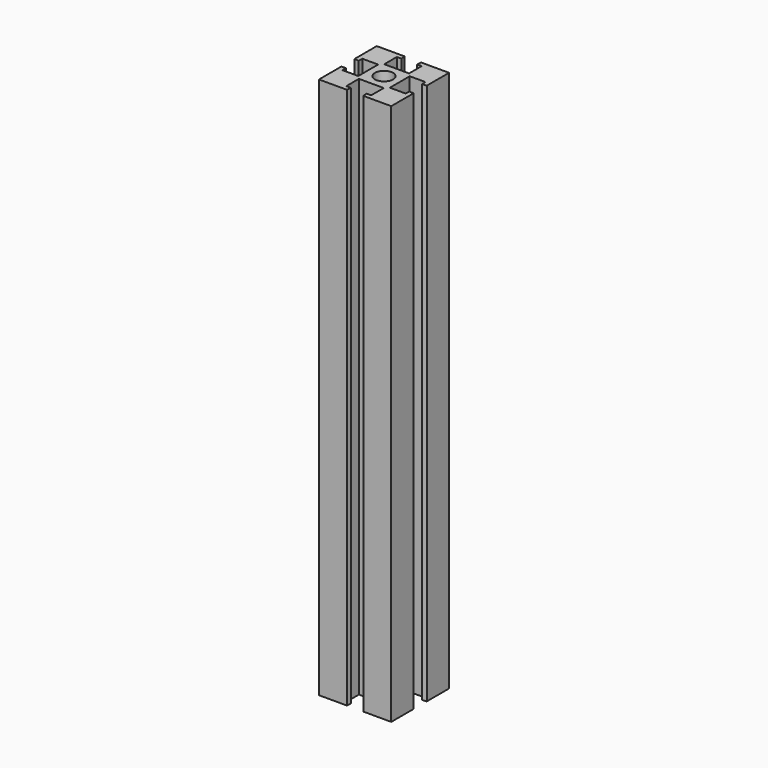
from build123d import *

# Parameters (mm, degrees)
F0_W     = 50.8
F0_H     = 50.8
F1_DEPTH = 381
F2_R     = 6.35
F3_DEPTH = 508


with BuildPart() as f1:
    # F0 (on Top) → F1 (new body)
    with BuildSketch(Plane.XY):
        with Locations((25.4, -25.4)):
            Rectangle(F0_W, F0_H)
    extrude(amount=F1_DEPTH)

    # F2 (on face) → F3 (cut)
    with BuildSketch(Plane.XY.offset(381)):
        with Locations((25.4, -25.4)):
            Circle(F2_R)
        Polygon((19.84375, -47.625), (19.58975, -50.8), (31.21025, -50.8), (30.95625, -47.625), (34.13125, -47.625), (34.13125, -36.5125), (16.66875, -36.5125), (16.66875, -47.625), align=None)
        Polygon((50.8, -31.21025), (50.8, -19.58975), (47.625, -19.84375), (47.625, -16.66875), (36.5125, -16.66875), (36.5125, -34.13125), (47.625, -34.13125), (47.625, -30.95625), align=None)
        Polygon((3.175, -19.84375), (0, -19.58975), (0, -31.21025), (3.175, -30.95625), (3.175, -34.13125), (14.2875, -34.13125), (14.2875, -16.66875), (3.175, -16.66875), align=None)
        Polygon((19.84375, -3.175), (16.66875, -3.175), (16.66875, -14.2875), (34.13125, -14.2875), (34.13125, -3.175), (30.95625, -3.175), (31.21025, 0), (19.58975, 0), align=None)
    extrude(amount=-F3_DEPTH, mode=Mode.SUBTRACT)


solid = f1.part
